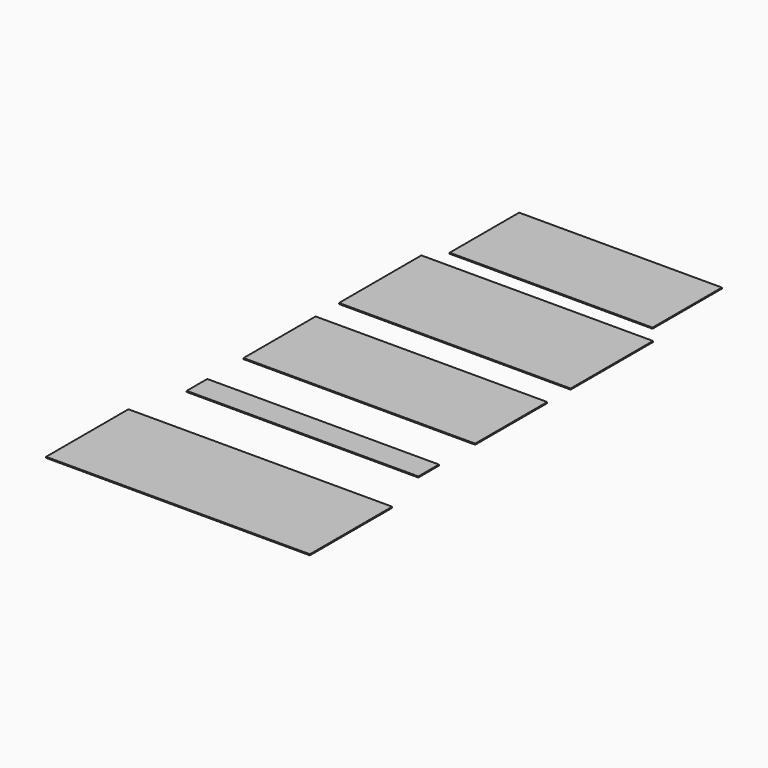
from build123d import *

# Parameters (mm, degrees)
F0_W     = 1800
F0_H     = 800
F0_W_2   = 1576
F0_H_2   = 674
F0_H_3   = 700
F0_H_4   = 200
F0_W_3   = 2050
F1_DEPTH = 8


with BuildPart() as f1:
    # F0 (on Top) → F1 (new body)
    with BuildSketch(Plane.XY):
        Rectangle(F0_W, F0_H)
        with Locations((0, 872.453809)):
            Rectangle(F0_W_2, F0_H_2)
        with Locations((0, -977.340817)):
            Rectangle(F0_W, F0_H_3)
        with Locations((0, -1779.434751)):
            Rectangle(F0_W, F0_H_4)
        with Locations((0, -2689.190865)):
            Rectangle(F0_W_3, F0_H)
    extrude(amount=F1_DEPTH)


solid = f1.part
